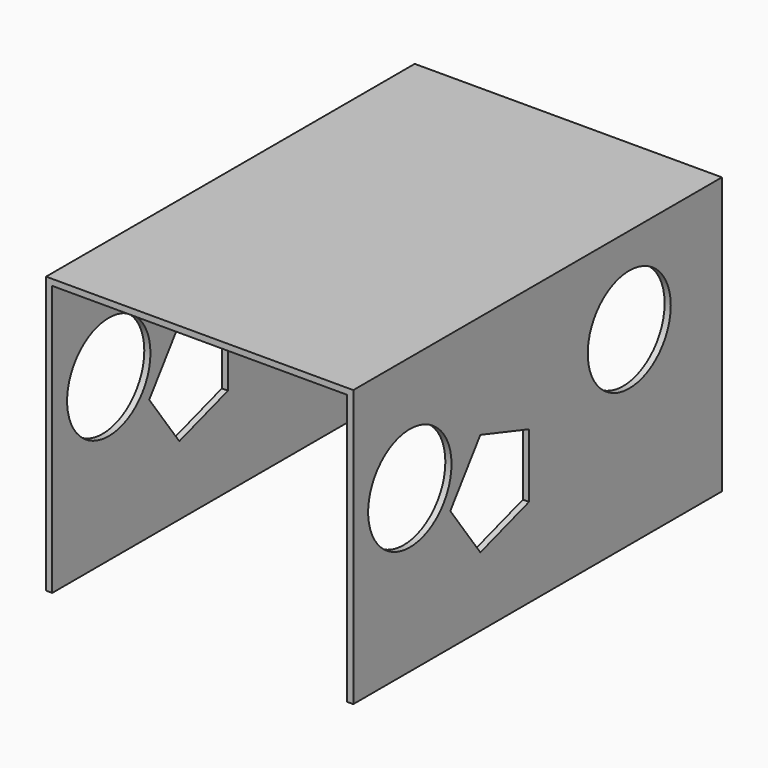
from build123d import *

# Parameters (mm, degrees)
F1_DEPTH = 150
F2_R     = 16.95362
F2_R_2   = 16.889789
F3_DEPTH = 100


with BuildPart() as f1:
    # F0 (on Front) → F1 (new body)
    with BuildSketch(Plane.XZ):
        Polygon((0, 90), (0, 0), (2, 0), (2, 88), (98, 88), (98, 0), (100, 0), (100, 90), align=None)
    extrude(amount=F1_DEPTH)

    # F2 (on face) → F3 (cut)
    with BuildSketch(Plane.YZ.offset(100)):
        with Locations((-126.991346, 52.532315)):
            Circle(F2_R)
        with Locations((-37.705854, 61.718065)):
            Circle(F2_R_2)
        Polygon((-78.490585, 28.893651), (-78.490585, 49.716024), (-98.293838, 56.150491), (-110.532922, 39.304838), (-98.293838, 22.459184), align=None)
    extrude(amount=-F3_DEPTH, mode=Mode.SUBTRACT)


solid = f1.part
